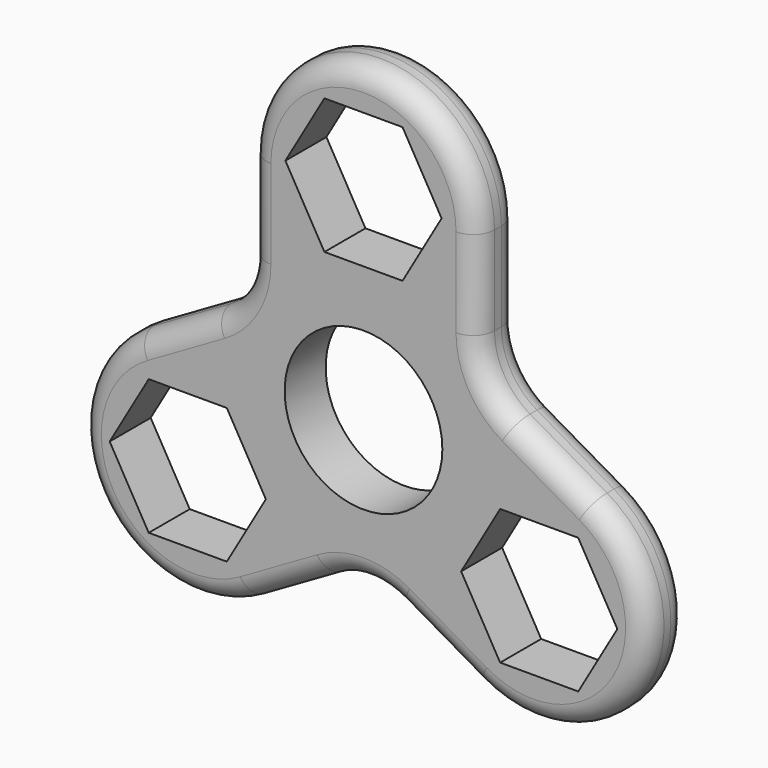
from build123d import *

# Parameters (mm, degrees)
F0_R     = 11.075
F1_DEPTH = 7.2
F2_R     = 3


with BuildPart() as f1:
    # F0 (on Front) → F1 (new body)
    with BuildSketch(Plane.XZ):
        with BuildLine():
            Line((16, 15.011107), (16, 27.5))
            ThreePointArc((16, 27.5), (0, 43.5), (-16, 27.5))
            Line((-16, 27.5), (-16, 15.011107))
            ThreePointArc((-16, 15.011107), (-17.339746, 10.011107), (-21, 6.350853))
            Line((-21, 6.350853), (-31.815699, 0.106406))
            ThreePointArc((-31.815699, 0.106406), (-37.672105, -21.75), (-15.815699, -27.606406))
            Line((-15.815699, -27.606406), (-5, -21.36196))
            ThreePointArc((-5, -21.36196), (0, -20.022214), (5, -21.36196))
            Line((5, -21.36196), (15.815699, -27.606406))
            ThreePointArc((15.815699, -27.606406), (37.672105, -21.75), (31.815699, 0.106406))
            Line((31.815699, 0.106406), (21, 6.350853))
            ThreePointArc((21, 6.350853), (17.339746, 10.011107), (16, 15.011107))
        make_face()
        Polygon((-19.196896, -23.75), (-30.166552, -23.75), (-35.651379, -14.25), (-30.166552, -4.75), (-19.196896, -4.75), (-13.712069, -14.25), align=None, mode=Mode.SUBTRACT)
        Polygon((30.166552, -4.75), (35.651379, -14.25), (30.166552, -23.75), (19.196896, -23.75), (13.712069, -14.25), (19.196896, -4.75), align=None, mode=Mode.SUBTRACT)
        Circle(F0_R, mode=Mode.SUBTRACT)
        Polygon((-10.969655, 28.5), (-5.484828, 38), (5.484828, 38), (10.969655, 28.5), (5.484828, 19), (-5.484828, 19), align=None, mode=Mode.SUBTRACT)
    extrude(amount=F1_DEPTH)

    # F2
    f2_edges = [f1.edges().sort_by_distance(p)[0] for p in [
        (-16, -7.2, 21.255553),
        (0, 0, 43.5),
    ]]
    fillet(f2_edges, radius=F2_R)


solid = f1.part
